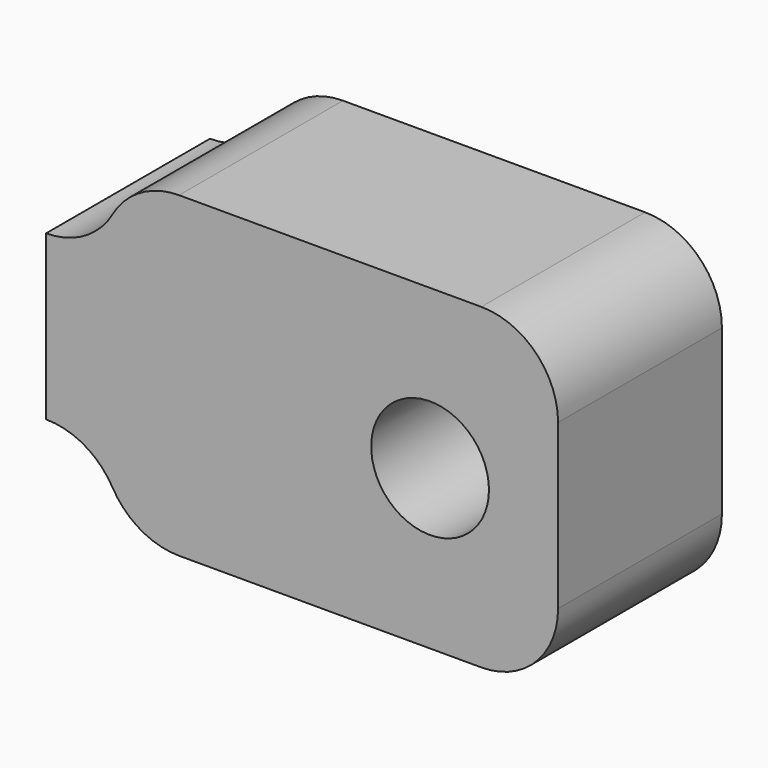
from build123d import *

# Parameters (mm, degrees)
F0_R     = 1.15
F1_DEPTH = 4
F2_R     = 1.5
F3_DEPTH = 5
F4_R     = 1.5


with BuildPart() as f1:
    # F0 (on Front) → F1 (new body)
    with BuildSketch(Plane.XZ):
        with BuildLine():
            Line((5, -3.1), (5, 3.1))
            Line((5, 3.1), (-3.5, 3.1))
            ThreePointArc((-3.5, 3.1), (-3.93934, 2.03934), (-5, 1.6))
            Line((-5, 1.6), (-5, -1.6))
            ThreePointArc((-5, -1.6), (-3.93934, -2.03934), (-3.5, -3.1))
            Line((-3.5, -3.1), (5, -3.1))
        make_face()
        with Locations((2.5, 0)):
            Circle(F0_R, mode=Mode.SUBTRACT)
    extrude(amount=F1_DEPTH)

    # F2 (on face) → F3 (cut)
    with BuildSketch(Plane(origin=(-5, 0, 0), x_dir=(0, -1, 0), z_dir=(-1, 0, 0))):
        with Locations((2, 0)):
            Circle(F2_R)
    extrude(amount=-F3_DEPTH, mode=Mode.SUBTRACT)

    # F4
    f4_edges = [f1.edges().sort_by_distance(p)[0] for p in [
        (-3.5, -2, 3.1),
        (-3.5, -2, -3.1),
        (5, -2, 3.1),
        (5, -2, -3.1),
    ]]
    fillet(f4_edges, radius=F4_R)


solid = f1.part
